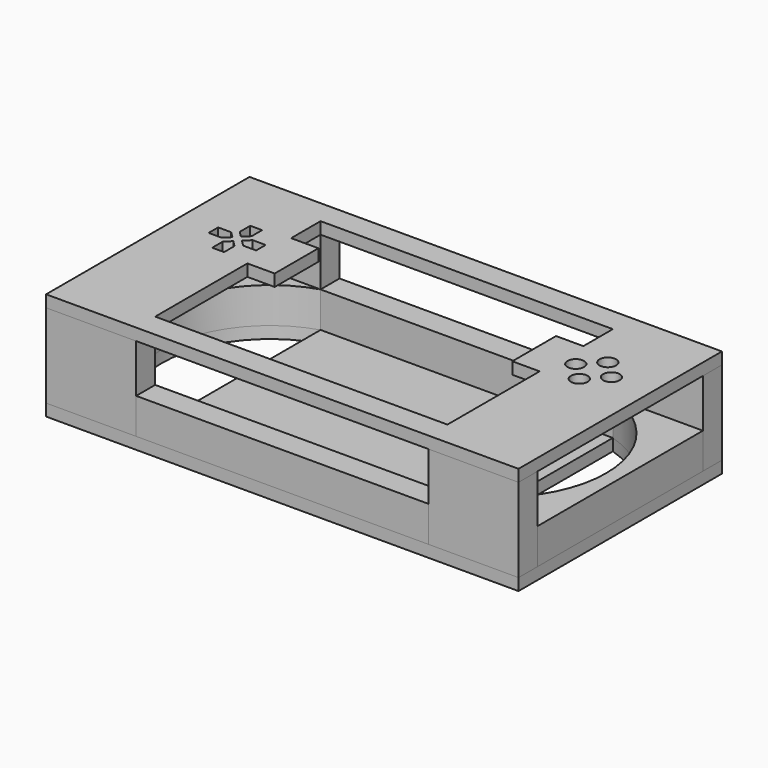
from build123d import *

# Parameters (mm, degrees)
F0_W     = 37.9109213352
F0_H     = 10
F1_DEPTH = 35.3
F3_DEPTH = 15
F0_W_2   = 123
F2_R     = 11.5
F2_R_2   = 3.5
F2_W     = 11.5
F2_H     = 23
F4_DEPTH = 5
F0_H_2   = 87
F5_DEPTH = 5


with BuildPart() as f1:
    # F0 (on Top) → F1 (new body)
    with BuildSketch(Plane.XY):
        with Locations((-80.4554606676, -48.5)):
            Rectangle(F0_W, F0_H)
    extrude(amount=F1_DEPTH)


with BuildPart() as f1b:
    # F0 (on Top) → F1, piece 2 (new body)
    with BuildSketch(Plane.XY):
        with Locations((-80.4554606676, 48.5)):
            Rectangle(F0_W, F0_H)
    extrude(amount=F1_DEPTH)


with BuildPart() as f1c:
    # F0 (on Top) → F1, piece 3 (new body)
    with BuildSketch(Plane.XY):
        with Locations((80.4554606676, 48.5)):
            Rectangle(F0_W, F0_H)
    extrude(amount=F1_DEPTH)


with BuildPart() as f1d:
    # F0 (on Top) → F1, piece 4 (new body)
    with BuildSketch(Plane.XY):
        with Locations((80.4554606676, -48.5)):
            Rectangle(F0_W, F0_H)
    extrude(amount=F1_DEPTH)


with BuildPart() as f3:
    # F0 (on Top) → F3 (new body)
    with BuildSketch(Plane.XY):
        with BuildLine():
            ThreePointArc((-61.5, -43.5), (-93.5, 0), (-61.5, 43.5))
            Line((-61.5, 43.5), (-99.4109213352, 43.5))
            Line((-99.4109213352, 43.5), (-99.4109213352, -43.5))
            Line((-99.4109213352, -43.5), (-61.5, -43.5))
        make_face()
    extrude(amount=F3_DEPTH)


with BuildPart() as f3b:
    # F0 (on Top) → F3, piece 2 (new body)
    with BuildSketch(Plane.XY):
        with Locations((0, 48.5)):
            Rectangle(F0_W_2, F0_H)
    extrude(amount=F3_DEPTH)


with BuildPart() as f3c:
    # F0 (on Top) → F3, piece 3 (new body)
    with BuildSketch(Plane.XY):
        with Locations((0, -48.5)):
            Rectangle(F0_W_2, F0_H)
    extrude(amount=F3_DEPTH)


with BuildPart() as f3d:
    # F0 (on Top) → F3, piece 4 (new body)
    with BuildSketch(Plane.XY):
        with BuildLine():
            Line((99.4109213352, 43.5), (61.5, 43.5))
            ThreePointArc((61.5, 43.5), (93.5, 0), (61.5, -43.5))
            Line((61.5, -43.5), (99.4109213352, -43.5))
            Line((99.4109213352, -43.5), (99.4109213352, 43.5))
        make_face()
    extrude(amount=F3_DEPTH)


with BuildPart() as f4:
    # F2 (on face) → F4 (new body)
    with BuildSketch(Plane.XY.offset(35.3)):
        Polygon((99.4109213352, 43.5), (61.5, 43.5), (61.5, 28), (61.5, 5), (61.5, -43.5), (99.4109213352, -43.5), align=None)
        with Locations((75, 16.5)):
            Circle(F2_R, mode=Mode.SUBTRACT)
        Polygon((-61.5, 43.5), (61.5, 43.5), (99.4109213352, 43.5), (99.4109213352, 53.5), (-99.4109213352, 53.5), (-99.4109213352, 43.5), align=None)
        Polygon((-61.5, 28), (-61.5, 43.5), (-99.4109213352, 43.5), (-99.4109213352, -43.5), (-61.5, -43.5), (-61.5, 5), align=None)
        with Locations((-75, 16.5)):
            Circle(F2_R, mode=Mode.SUBTRACT)
        Polygon((99.4109213352, -53.5), (99.4109213352, -43.5), (61.5, -43.5), (-61.5, -43.5), (-99.4109213352, -43.5), (-99.4109213352, -53.5), align=None)
        with Locations((-75, 16.5)):
            Circle(F2_R)
        Polygon((-75, 14.5), (-72.5, 12), (-72.5, 6.5), (-77.5, 6.5), (-77.5, 12), align=None, mode=Mode.SUBTRACT)
        Polygon((-79.5, 14), (-85, 14), (-85, 19), (-79.5, 19), (-77, 16.5), align=None, mode=Mode.SUBTRACT)
        Polygon((-75, 18.5), (-77.5, 21), (-77.5, 26.5), (-72.5, 26.5), (-72.5, 21), align=None, mode=Mode.SUBTRACT)
        Polygon((-65, 14), (-70.5, 14), (-73, 16.5), (-70.5, 19), (-65, 19), align=None, mode=Mode.SUBTRACT)
        with Locations((75, 16.5)):
            Circle(F2_R)
        with Locations((75, 9)):
            Circle(F2_R_2, mode=Mode.SUBTRACT)
        with Locations((67.5, 16.5)):
            Circle(F2_R_2, mode=Mode.SUBTRACT)
        with Locations((82.5, 16.5)):
            Circle(F2_R_2, mode=Mode.SUBTRACT)
        with Locations((75, 24)):
            Circle(F2_R_2, mode=Mode.SUBTRACT)
        with Locations((-55.75, 16.5)):
            Rectangle(F2_W, F2_H)
        with Locations((55.75, 16.5)):
            Rectangle(F2_W, F2_H)
    extrude(amount=F4_DEPTH)


with BuildPart() as f5:
    # F0 (on Top) → F5 (new body)
    with BuildSketch(Plane.XY):
        with BuildLine():
            Line((99.4109213352, 43.5), (61.5, 43.5))
            ThreePointArc((61.5, 43.5), (93.5, 0), (61.5, -43.5))
            Line((61.5, -43.5), (99.4109213352, -43.5))
            Line((99.4109213352, -43.5), (99.4109213352, 43.5))
        make_face()
        with Locations((80.4554606676, 48.5)):
            Rectangle(F0_W, F0_H)
        with Locations((0, 48.5)):
            Rectangle(F0_W_2, F0_H)
        with BuildLine():
            ThreePointArc((-61.5, -43.5), (-93.5, 0), (-61.5, 43.5))
            Line((-61.5, 43.5), (-99.4109213352, 43.5))
            Line((-99.4109213352, 43.5), (-99.4109213352, -43.5))
            Line((-99.4109213352, -43.5), (-61.5, -43.5))
        make_face()
        with Locations((-80.4554606676, 48.5)):
            Rectangle(F0_W, F0_H)
        with Locations((0, -48.5)):
            Rectangle(F0_W_2, F0_H)
        with Locations((80.4554606676, -48.5)):
            Rectangle(F0_W, F0_H)
        with Locations((-80.4554606676, -48.5)):
            Rectangle(F0_W, F0_H)
        Rectangle(F0_W_2, F0_H_2)
    extrude(amount=-F5_DEPTH)


solid = Compound([f1.part, f1b.part, f1c.part, f1d.part, f3.part, f3b.part, f3c.part, f3d.part, f4.part, f5.part])
